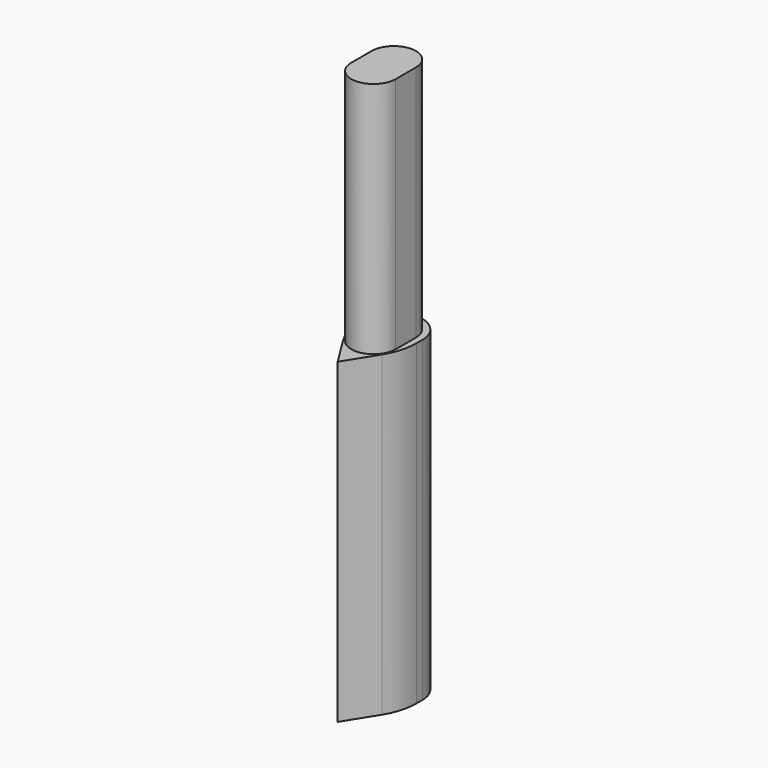
from build123d import *

# Parameters (mm, degrees)
F1_DEPTH = 25.4
F3_DEPTH = 19.05


with BuildPart() as f1:
    # F0 (on Top) → F1 (new body)
    with BuildSketch(Plane.XY):
        with BuildLine():
            Line((2.286, 0.440925), (2.286, 1.016))
            ThreePointArc((2.286, 1.016), (0, 3.302), (-2.286, 1.016))
            Line((-2.286, 1.016), (-2.286, 0.440925))
            ThreePointArc((-2.286, 0.440925), (-2.098986, -0.889519), (-1.55244, -2.11685))
            Line((-1.55244, -2.11685), (0, -4.600754))
            Line((0, -4.600754), (1.55244, -2.11685))
            ThreePointArc((1.55244, -2.11685), (2.098986, -0.889519), (2.286, 0.440925))
        make_face()
    extrude(amount=F1_DEPTH)

    # F2 (on face) → F3 (join)
    with BuildSketch(Plane.XY.offset(25.4)):
        with BuildLine():
            ThreePointArc((1.778, 1.016), (0, 2.794), (-1.778, 1.016))
            Line((-1.778, 1.016), (-1.778, -1.016))
            ThreePointArc((-1.778, -1.016), (0, -2.794), (1.778, -1.016))
            Line((1.778, -1.016), (1.778, 1.016))
        make_face()
    extrude(amount=F3_DEPTH)


solid = f1.part
